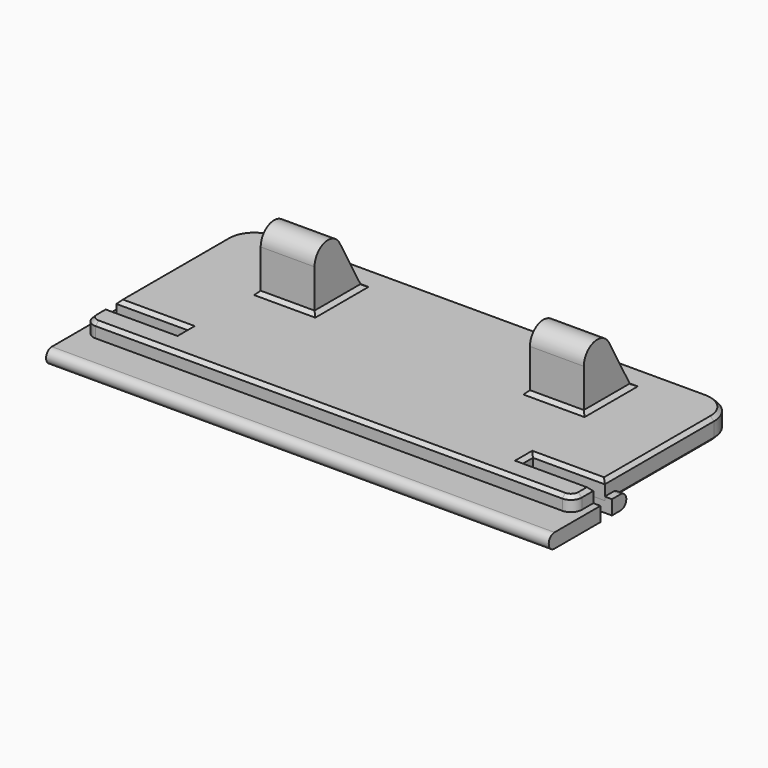
from build123d import *

# Parameters (mm, degrees)
PAD_DEPTH    = 70
SKETCH001_W  = 22
SKETCH001_H  = 4
POCKET_DEPTH = 4
PAD001_DEPTH = 6
PAD002_DEPTH = 15
CHAMFER_SIZE = 1


with BuildPart() as body:
    # Sketch → Pad (new body, symmetric)
    with BuildSketch(Plane.YZ):
        with BuildLine():
            ThreePointArc((-18, 2), (-20, 0), (-18, -2))
            Line((-18, -2), (5, -2))
            ThreePointArc((5, -2), (7, 0), (5, 2))
            Line((-18, 2), (5, 2))
        make_face()
    extrude(amount=PAD_DEPTH, both=True)

    # Sketch001 → Pocket (cut, symmetric)
    with BuildSketch(Plane.XY):
        with Locations((59, 0)):
            Rectangle(SKETCH001_W, SKETCH001_H)
    extrude(amount=POCKET_DEPTH, both=True, mode=Mode.SUBTRACT)


with BuildPart() as body001:
    # Sketch002 → Pad001 (new body)
    with BuildSketch(Plane.XY):
        with BuildLine():
            Line((-60, 48), (60, 48))
            ThreePointArc((68, 40), (65.656854, 45.656854), (60, 48))
            Line((68, 40), (68, 2))
            Line((48, 2), (68, 2))
            Line((48, -2), (48, 2))
            Line((68, -2), (48, -2))
            Line((68, -2), (68, -6))
            ThreePointArc((65, -9), (67.12132, -8.12132), (68, -6))
            Line((65, -9), (-65, -9))
            ThreePointArc((-68, -6), (-67.12132, -8.12132), (-65, -9))
            Line((-68, -6), (-68, -2))
            Line((-68, -2), (-48, -2))
            Line((-48, -2), (-48, 2))
            Line((-48, 2), (-68, 2))
            Line((-68, 2), (-68, 40))
            ThreePointArc((-60, 48), (-65.656854, 45.656854), (-68, 40))
        make_face()
    extrude(amount=PAD001_DEPTH)

    # Sketch003 → Pad002 (join)
    with BuildSketch(Plane.YZ.offset(30)):
        with BuildLine():
            ThreePointArc((32.20551, 20), (26.959044, 22.245373), (23.467371, 17.731469))
            Line((23.467371, 17.731469), (23.467371, 6))
            Line((23.467371, 6), (40, 6))
            Line((40, 6), (32.20551, 20))
        make_face()
    pad002 = extrude(amount=PAD002_DEPTH)

    # Mirrored: Pad002 across YZ
    add(pad002.mirror(Plane.YZ))

    # Chamfer
    chamfer_edges = [body001.edges().sort_by_distance(p)[0] for p in [
        (-68, -4, 6),
        (-67.12132, -8.12132, 6),
        (-58, -2, 6),
        (0, -9, 6),
        (-48, 0, 6),
        (67.12132, -8.12132, 6),
        (-58, 2, 6),
        (68, -4, 6),
        (-68, 21, 6),
        (58, -2, 6),
        (-65.656854, 45.656854, 6),
        (48, 0, 6),
        (0, 48, 6),
        (58, 2, 6),
        (65.656854, 45.656854, 6),
        (68, 21, 6),
        (37.5, 23.467371, 6),
        (30, 31.733686, 6),
        (45, 31.733686, 6),
        (37.5, 40, 6),
        (-30, 31.733686, 6),
        (-37.5, 40, 6),
        (-45, 31.733686, 6),
        (-37.5, 23.467371, 6),
        (-68, -4, 0),
        (-58, -2, 0),
        (-48, 0, 0),
        (-58, 2, 0),
        (-68, 21, 0),
        (-65.656854, 45.656854, 0),
        (0, 48, 0),
        (65.656854, 45.656854, 0),
        (68, 21, 0),
        (58, 2, 0),
        (48, 0, 0),
        (58, -2, 0),
        (68, -4, 0),
        (67.12132, -8.12132, 0),
        (0, -9, 0),
        (-67.12132, -8.12132, 0),
    ]]
    chamfer(chamfer_edges, length=CHAMFER_SIZE)


solid = Compound([body.part, body001.part])
